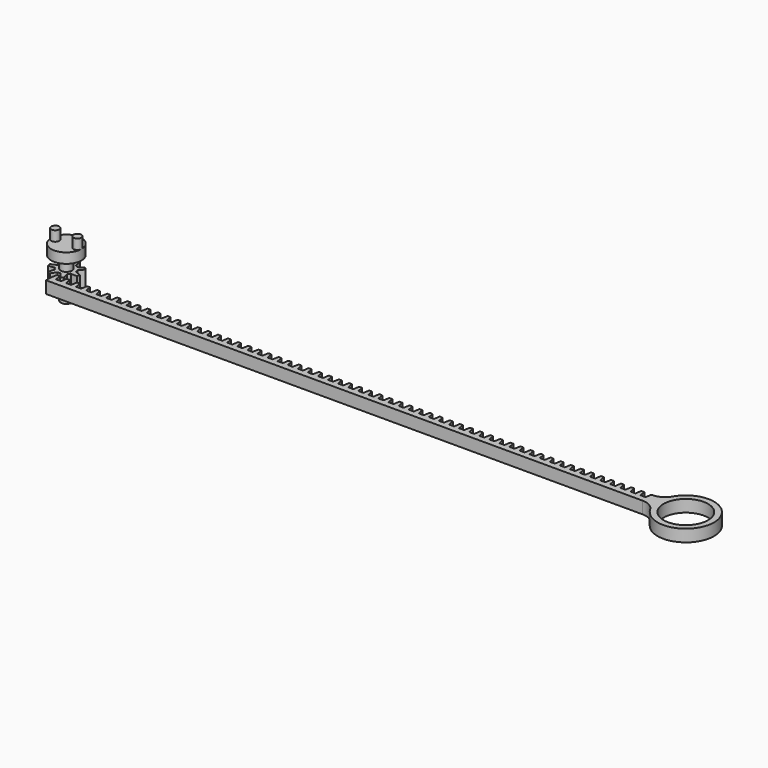
from build123d import *

# Parameters (mm, degrees)
F0_R     = 2.75
F1_DEPTH = 4
F0_R_2   = 11
F2_DEPTH = 3
F3_DEPTH = 10
F4_R     = 7.5
F5_DEPTH = 5
F6_R     = 2
F7_DEPTH = 5


with BuildPart() as f1:
    # F0 (on Top) → F1 (new body, symmetric)
    with BuildSketch(Plane.XY):
        with BuildLine():
            Line((4.159145, 1.717997), (6.301961, 4.06636))
            ThreePointArc((6.301961, 4.06636), (5.863736, 4.676174), (5.366726, 5.239108))
            Line((5.366726, 5.239108), (2.60042, 3.672576))
            ThreePointArc((2.60042, 3.672576), (1.952477, 4.05436), (1.25, 4.322904))
            Line((1.25, 4.322904), (0.75, 7.462406))
            ThreePointArc((0.75, 7.462406), (0, 7.5), (-0.75, 7.462406))
            Line((-0.75, 7.462406), (-1.25, 4.322904))
            ThreePointArc((-1.25, 4.322904), (-1.952477, 4.05436), (-2.60042, 3.672576))
            Line((-2.60042, 3.672576), (-5.366726, 5.239108))
            ThreePointArc((-5.366726, 5.239108), (-5.863736, 4.676174), (-6.301961, 4.06636))
            Line((-6.301961, 4.06636), (-4.159145, 1.717997))
            ThreePointArc((-4.159145, 1.717997), (-4.387176, 1.001344), (-4.492671, 0.256723))
            Line((-4.492671, 0.256723), (-7.442198, -0.929346))
            ThreePointArc((-7.442198, -0.929346), (-7.311959, -1.668907), (-7.108417, -2.391737))
            Line((-7.108417, -2.391737), (-3.936369, -2.180597))
            ThreePointArc((-3.936369, -2.180597), (-3.518242, -2.805704), (-3.001849, -3.352447))
            Line((-3.001849, -3.352447), (-3.913543, -6.397982))
            ThreePointArc((-3.913543, -6.397982), (-3.254128, -6.757267), (-2.56209, -7.048808))
            Line((-2.56209, -7.048808), (-0.749427, -4.437157))
            ThreePointArc((-0.749427, -4.437157), (0, -4.5), (0.749427, -4.437157))
            Line((0.749427, -4.437157), (2.56209, -7.048808))
            ThreePointArc((2.56209, -7.048808), (3.254128, -6.757267), (3.913543, -6.397982))
            Line((3.913543, -6.397982), (3.001849, -3.352447))
            ThreePointArc((3.001849, -3.352447), (3.518242, -2.805704), (3.936369, -2.180597))
            Line((3.936369, -2.180597), (7.108417, -2.391737))
            ThreePointArc((7.108417, -2.391737), (7.311959, -1.668907), (7.442198, -0.929346))
            Line((7.442198, -0.929346), (4.492671, 0.256723))
            ThreePointArc((4.492671, 0.256723), (4.387176, 1.001344), (4.159145, 1.717997))
        make_face()
        Circle(F0_R, mode=Mode.SUBTRACT)
    extrude(amount=F1_DEPTH, both=True)

    # F0 (on Top) → F3 (join, symmetric)
    with BuildSketch(Plane.XY):
        Circle(F0_R)
    extrude(amount=F3_DEPTH, both=True)

    # F4 (on face) → F5 (join)
    with BuildSketch(Plane.XY.offset(10)):
        Circle(F4_R)
    extrude(amount=F5_DEPTH)

    # F6 (on face) → F7 (join)
    with BuildSketch(Plane.XY.offset(15)):
        with Locations((-5.5, 0)):
            Circle(F6_R)
        with Locations((5.5, 0)):
            Circle(F6_R)
    extrude(amount=F7_DEPTH)


with BuildPart() as f2:
    # F0 (on Top) → F2 (new body, symmetric)
    with BuildSketch(Plane.XY):
        with BuildLine():
            Line((4.25, -5), (4.029016, -6.325901))
            Line((4.029016, -6.325901), (3.75, -8))
            Line((3.75, -8), (1.25, -8))
            Line((1.25, -8), (0.75, -5))
            Line((0.75, -5), (-0.75, -5))
            Line((-0.75, -5), (-1.25, -8))
            Line((-1.25, -8), (-1.25, -11))
            Line((-1.25, -11), (294.697441, -11))
            ThreePointArc((294.697441, -11), (298.697441, -12.071797), (301.625644, -15))
            ThreePointArc((301.625644, -15), (327.75, -8), (301.625644, -1))
            ThreePointArc((301.625644, -1), (298.697441, -3.928203), (294.697441, -5))
            Line((294.697441, -5), (294.25, -5))
            Line((294.25, -5), (293.75, -8))
            Line((293.75, -8), (291.25, -8))
            Line((291.25, -8), (290.75, -5))
            Line((290.75, -5), (289.25, -5))
            Line((289.25, -5), (288.75, -8))
            Line((288.75, -8), (286.25, -8))
            Line((286.25, -8), (285.75, -5))
            Line((285.75, -5), (284.25, -5))
            Line((284.25, -5), (283.75, -8))
            Line((283.75, -8), (281.25, -8))
            Line((281.25, -8), (280.75, -5))
            Line((280.75, -5), (279.25, -5))
            Line((279.25, -5), (278.75, -8))
            Line((278.75, -8), (276.25, -8))
            Line((276.25, -8), (275.75, -5))
            Line((275.75, -5), (274.25, -5))
            Line((274.25, -5), (273.75, -8))
            Line((273.75, -8), (271.25, -8))
            Line((271.25, -8), (270.75, -5))
            Line((270.75, -5), (269.25, -5))
            Line((269.25, -5), (268.75, -8))
            Line((268.75, -8), (266.25, -8))
            Line((266.25, -8), (265.75, -5))
            Line((265.75, -5), (264.25, -5))
            Line((264.25, -5), (263.75, -8))
            Line((263.75, -8), (261.25, -8))
            Line((261.25, -8), (260.75, -5))
            Line((260.75, -5), (259.25, -5))
            Line((259.25, -5), (258.75, -8))
            Line((258.75, -8), (256.25, -8))
            Line((256.25, -8), (255.75, -5))
            Line((255.75, -5), (254.25, -5))
            Line((254.25, -5), (253.75, -8))
            Line((253.75, -8), (251.25, -8))
            Line((251.25, -8), (250.75, -5))
            Line((250.75, -5), (249.25, -5))
            Line((249.25, -5), (248.75, -8))
            Line((248.75, -8), (246.25, -8))
            Line((246.25, -8), (245.75, -5))
            Line((245.75, -5), (244.25, -5))
            Line((244.25, -5), (243.75, -8))
            Line((243.75, -8), (241.25, -8))
            Line((241.25, -8), (240.75, -5))
            Line((240.75, -5), (239.25, -5))
            Line((239.25, -5), (238.75, -8))
            Line((238.75, -8), (236.25, -8))
            Line((236.25, -8), (235.75, -5))
            Line((235.75, -5), (234.25, -5))
            Line((234.25, -5), (233.75, -8))
            Line((233.75, -8), (231.25, -8))
            Line((231.25, -8), (230.75, -5))
            Line((230.75, -5), (229.25, -5))
            Line((229.25, -5), (228.75, -8))
            Line((228.75, -8), (226.25, -8))
            Line((226.25, -8), (225.75, -5))
            Line((225.75, -5), (224.25, -5))
            Line((224.25, -5), (223.75, -8))
            Line((223.75, -8), (221.25, -8))
            Line((221.25, -8), (220.75, -5))
            Line((220.75, -5), (219.25, -5))
            Line((219.25, -5), (218.75, -8))
            Line((218.75, -8), (216.25, -8))
            Line((216.25, -8), (215.75, -5))
            Line((215.75, -5), (214.25, -5))
            Line((214.25, -5), (213.75, -8))
            Line((213.75, -8), (211.25, -8))
            Line((211.25, -8), (210.75, -5))
            Line((210.75, -5), (209.25, -5))
            Line((209.25, -5), (208.75, -8))
            Line((208.75, -8), (206.25, -8))
            Line((206.25, -8), (205.75, -5))
            Line((205.75, -5), (204.25, -5))
            Line((204.25, -5), (203.75, -8))
            Line((203.75, -8), (201.25, -8))
            Line((201.25, -8), (200.75, -5))
            Line((200.75, -5), (199.25, -5))
            Line((199.25, -5), (198.75, -8))
            Line((198.75, -8), (196.25, -8))
            Line((196.25, -8), (195.75, -5))
            Line((195.75, -5), (194.25, -5))
            Line((194.25, -5), (193.75, -8))
            Line((193.75, -8), (191.25, -8))
            Line((191.25, -8), (190.75, -5))
            Line((190.75, -5), (189.25, -5))
            Line((189.25, -5), (188.75, -8))
            Line((188.75, -8), (186.25, -8))
            Line((186.25, -8), (185.75, -5))
            Line((185.75, -5), (184.25, -5))
            Line((184.25, -5), (183.75, -8))
            Line((183.75, -8), (181.25, -8))
            Line((181.25, -8), (180.75, -5))
            Line((180.75, -5), (179.25, -5))
            Line((179.25, -5), (178.75, -8))
            Line((178.75, -8), (176.25, -8))
            Line((176.25, -8), (175.75, -5))
            Line((175.75, -5), (174.25, -5))
            Line((174.25, -5), (173.75, -8))
            Line((173.75, -8), (171.25, -8))
            Line((171.25, -8), (170.75, -5))
            Line((170.75, -5), (169.25, -5))
            Line((169.25, -5), (168.75, -8))
            Line((168.75, -8), (166.25, -8))
            Line((166.25, -8), (165.75, -5))
            Line((165.75, -5), (164.25, -5))
            Line((164.25, -5), (163.75, -8))
            Line((163.75, -8), (161.25, -8))
            Line((161.25, -8), (160.75, -5))
            Line((160.75, -5), (159.25, -5))
            Line((159.25, -5), (158.75, -8))
            Line((158.75, -8), (156.25, -8))
            Line((156.25, -8), (155.75, -5))
            Line((155.75, -5), (154.25, -5))
            Line((154.25, -5), (153.75, -8))
            Line((153.75, -8), (151.25, -8))
            Line((151.25, -8), (150.75, -5))
            Line((150.75, -5), (149.25, -5))
            Line((149.25, -5), (148.75, -8))
            Line((148.75, -8), (146.25, -8))
            Line((146.25, -8), (145.75, -5))
            Line((145.75, -5), (144.25, -5))
            Line((144.25, -5), (143.75, -8))
            Line((143.75, -8), (141.25, -8))
            Line((141.25, -8), (140.75, -5))
            Line((140.75, -5), (139.25, -5))
            Line((139.25, -5), (138.75, -8))
            Line((138.75, -8), (136.25, -8))
            Line((136.25, -8), (135.75, -5))
            Line((135.75, -5), (134.25, -5))
            Line((134.25, -5), (133.75, -8))
            Line((133.75, -8), (131.25, -8))
            Line((131.25, -8), (130.75, -5))
            Line((130.75, -5), (129.25, -5))
            Line((129.25, -5), (128.75, -8))
            Line((128.75, -8), (126.25, -8))
            Line((126.25, -8), (125.75, -5))
            Line((125.75, -5), (124.25, -5))
            Line((124.25, -5), (123.75, -8))
            Line((123.75, -8), (121.25, -8))
            Line((121.25, -8), (120.75, -5))
            Line((120.75, -5), (119.25, -5))
            Line((119.25, -5), (118.75, -8))
            Line((118.75, -8), (116.25, -8))
            Line((116.25, -8), (115.75, -5))
            Line((115.75, -5), (114.25, -5))
            Line((114.25, -5), (113.75, -8))
            Line((113.75, -8), (111.25, -8))
            Line((111.25, -8), (110.75, -5))
            Line((110.75, -5), (109.25, -5))
            Line((109.25, -5), (108.75, -8))
            Line((108.75, -8), (106.25, -8))
            Line((106.25, -8), (105.75, -5))
            Line((105.75, -5), (104.25, -5))
            Line((104.25, -5), (103.75, -8))
            Line((103.75, -8), (101.25, -8))
            Line((101.25, -8), (100.75, -5))
            Line((100.75, -5), (99.25, -5))
            Line((99.25, -5), (98.75, -8))
            Line((98.75, -8), (96.25, -8))
            Line((96.25, -8), (95.75, -5))
            Line((95.75, -5), (94.25, -5))
            Line((94.25, -5), (93.75, -8))
            Line((93.75, -8), (91.25, -8))
            Line((91.25, -8), (90.75, -5))
            Line((90.75, -5), (89.25, -5))
            Line((89.25, -5), (88.75, -8))
            Line((88.75, -8), (86.25, -8))
            Line((86.25, -8), (85.75, -5))
            Line((85.75, -5), (84.25, -5))
            Line((84.25, -5), (83.75, -8))
            Line((83.75, -8), (81.25, -8))
            Line((81.25, -8), (80.75, -5))
            Line((80.75, -5), (79.25, -5))
            Line((79.25, -5), (78.75, -8))
            Line((78.75, -8), (76.25, -8))
            Line((76.25, -8), (75.75, -5))
            Line((75.75, -5), (74.25, -5))
            Line((74.25, -5), (73.75, -8))
            Line((73.75, -8), (71.25, -8))
            Line((71.25, -8), (70.75, -5))
            Line((70.75, -5), (69.25, -5))
            Line((69.25, -5), (68.75, -8))
            Line((68.75, -8), (66.25, -8))
            Line((66.25, -8), (65.75, -5))
            Line((65.75, -5), (64.25, -5))
            Line((64.25, -5), (63.75, -8))
            Line((63.75, -8), (61.25, -8))
            Line((61.25, -8), (60.75, -5))
            Line((60.75, -5), (59.25, -5))
            Line((59.25, -5), (58.75, -8))
            Line((58.75, -8), (56.25, -8))
            Line((56.25, -8), (55.75, -5))
            Line((55.75, -5), (54.25, -5))
            Line((54.25, -5), (53.75, -8))
            Line((53.75, -8), (51.25, -8))
            Line((51.25, -8), (50.75, -5))
            Line((50.75, -5), (49.25, -5))
            Line((49.25, -5), (48.75, -8))
            Line((48.75, -8), (46.25, -8))
            Line((46.25, -8), (45.75, -5))
            Line((45.75, -5), (44.25, -5))
            Line((44.25, -5), (43.75, -8))
            Line((43.75, -8), (41.25, -8))
            Line((41.25, -8), (40.75, -5))
            Line((40.75, -5), (39.25, -5))
            Line((39.25, -5), (38.75, -8))
            Line((38.75, -8), (36.25, -8))
            Line((36.25, -8), (35.75, -5))
            Line((35.75, -5), (34.25, -5))
            Line((34.25, -5), (33.75, -8))
            Line((33.75, -8), (31.25, -8))
            Line((31.25, -8), (30.75, -5))
            Line((30.75, -5), (29.25, -5))
            Line((29.25, -5), (28.75, -8))
            Line((28.75, -8), (26.25, -8))
            Line((26.25, -8), (25.75, -5))
            Line((25.75, -5), (24.25, -5))
            Line((24.25, -5), (23.75, -8))
            Line((23.75, -8), (21.25, -8))
            Line((21.25, -8), (20.75, -5))
            Line((20.75, -5), (19.25, -5))
            Line((19.25, -5), (18.75, -8))
            Line((18.75, -8), (16.25, -8))
            Line((16.25, -8), (15.75, -5))
            Line((15.75, -5), (14.25, -5))
            Line((14.25, -5), (13.75, -8))
            Line((13.75, -8), (11.25, -8))
            Line((11.25, -8), (10.75, -5))
            Line((10.75, -5), (9.25, -5))
            Line((9.25, -5), (8.75, -8))
            Line((8.75, -8), (6.25, -8))
            Line((6.25, -8), (5.75, -5))
            Line((5.75, -5), (4.25, -5))
        make_face()
        with Locations((313.75, -8)):
            Circle(F0_R_2, mode=Mode.SUBTRACT)
    extrude(amount=F2_DEPTH, both=True)


solid = Compound([f1.part, f2.part])
